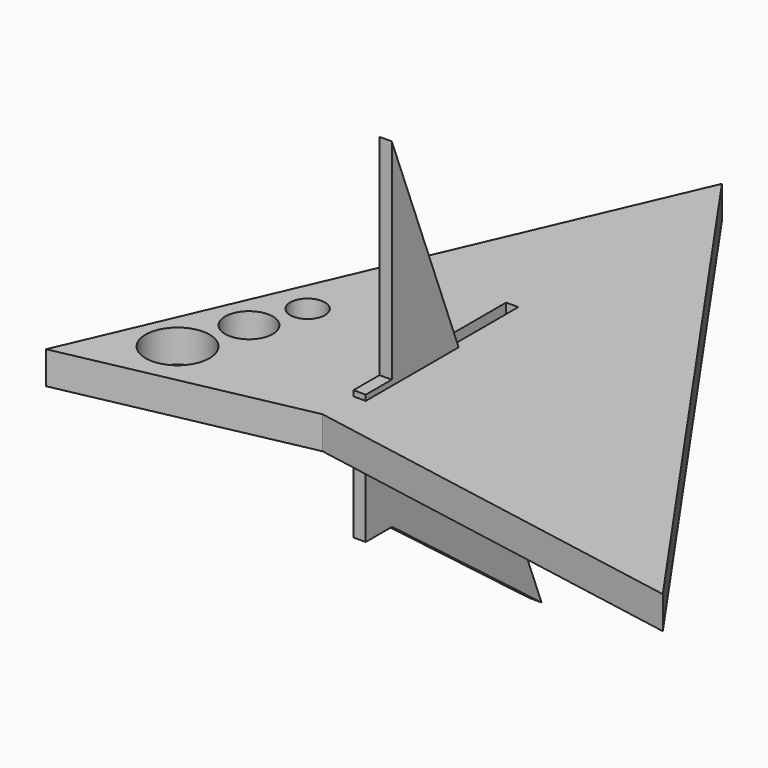
from build123d import *

# Parameters (mm, degrees)
F0_R     = 3.116082
F0_R_2   = 2.318569
F0_R_3   = 1.689933
F0_W     = 1.191754
F0_H     = 12.633354
F1_DEPTH = 3.175
F3_DEPTH = 1.19126


with BuildPart() as f1:
    # F0 (on Top) → F1 (new body)
    with BuildSketch(Plane.XY):
        Polygon((38.676079, -10.722989), (0, 44.816598), (-13.827338, 12.882033), (-20.977833, -3.632203), (-23.095671, -8.523402), (0, -3.757629), align=None)
        with Locations((-15.580412, -1.924639)):
            Circle(F0_R, mode=Mode.SUBTRACT)
        with Locations((-13.520994, 4.187773)):
            Circle(F0_R_2, mode=Mode.SUBTRACT)
        with Locations((-11.734423, 9.083614)):
            Circle(F0_R_3, mode=Mode.SUBTRACT)
        with Locations((0, 12.992069)):
            Rectangle(F0_W, F0_H, mode=Mode.SUBTRACT)
    extrude(amount=F1_DEPTH)


with BuildPart() as f3:
    # F2 (on Right) → F3 (new body)
    with BuildSketch(Plane.YZ):
        Polygon((3.166777, 3.711562), (0, 3.711562), (0, -8.912238), (3.211547, -8.912238), (21.380514, -22.780178), (3.166777, 24.12953), align=None)
    extrude(amount=F3_DEPTH)


solid = Compound([f1.part, f3.part])
